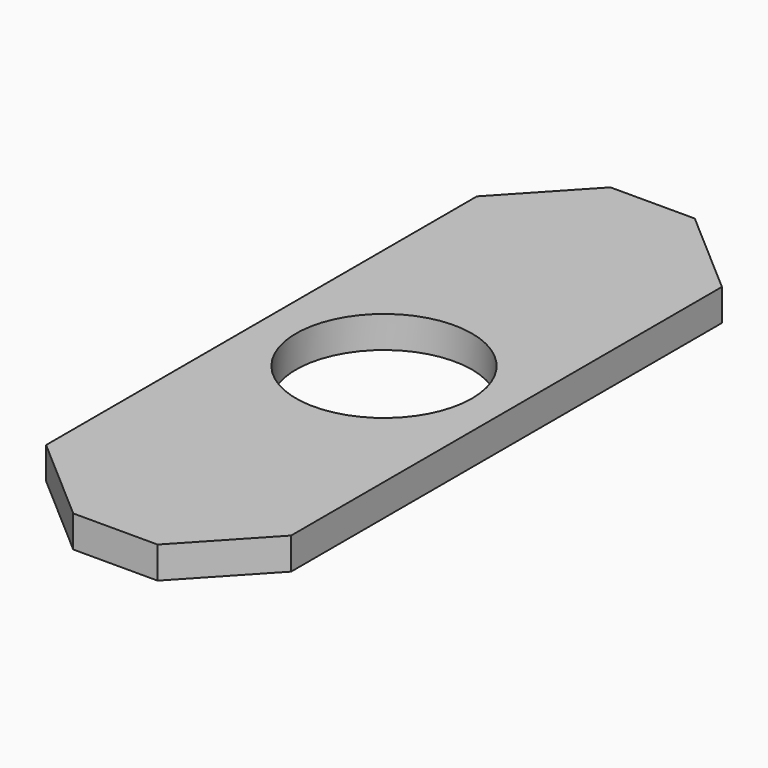
from build123d import *

# Parameters (mm, degrees)
F0_R     = 11.2522
F1_DEPTH = 4.064
F2_COUNT = 2


with BuildPart() as f1:
    # F0 (on Top) → F1 (new body)
    with BuildSketch(Plane.XY):
        with BuildLine():
            ThreePointArc((-15.669299, 0), (0, -15.669299), (15.669299, 0))
            ThreePointArc((15.669299, 0), (0, 15.669299), (-15.669299, 0))
        make_face()
        Circle(F0_R, mode=Mode.SUBTRACT)
        with BuildLine():
            Line((15.669299, -34.433249), (15.669299, 0))
            ThreePointArc((15.669299, 0), (0, -15.669299), (-15.669299, 0))
            Line((-15.669299, 0), (-15.669299, -34.433249))
            Line((-15.669299, -34.433249), (-4.313127, -44.288438))
            Line((-4.313127, -44.288438), (6.474976, -44.288438))
            Line((6.474976, -44.288438), (15.669299, -34.433249))
        make_face()
    extrude(amount=F1_DEPTH)

    # F2: F1 ×2 about axis
    f2_axis = Axis((0, 0, 4.064), (0, 0, 1))


with BuildPart() as f1_1:
    add(f1.part)
    for i in range(1, F2_COUNT):
        add(f1.part.rotate(f2_axis, i * 360 / F2_COUNT))


solid = f1_1.part
